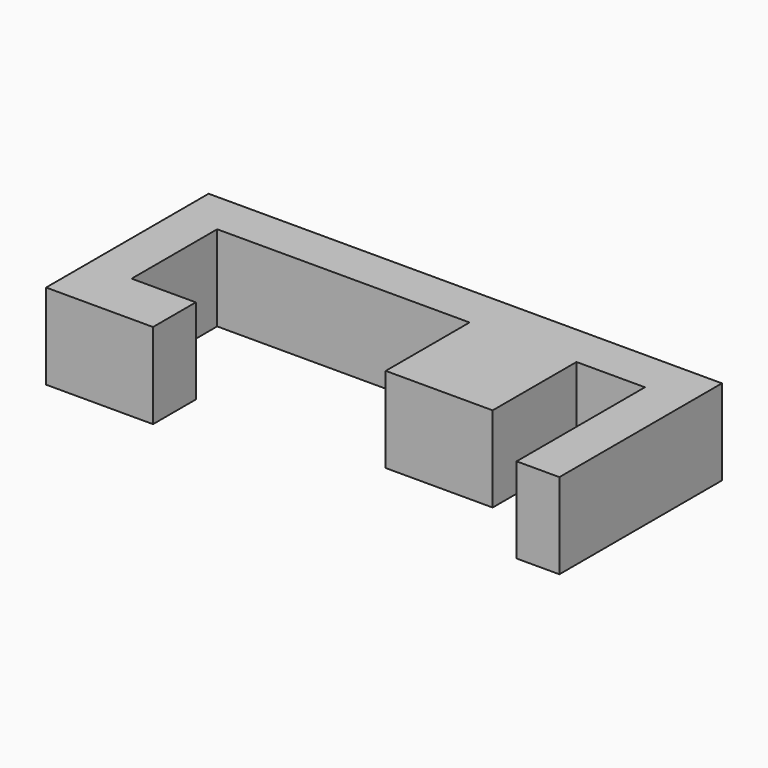
from build123d import *

# Parameters (mm, degrees)
BOX003_W     = 85
BOX003_H     = 13
BOX003_DEPTH = 20
BOX002_W     = 16
BOX002_H     = 25
BOX002_DEPTH = 20
BOX001_W     = 59
BOX001_H     = 25
BOX001_DEPTH = 20
BOX_W        = 120
BOX_H        = 47.5
BOX_DEPTH    = 20


with BuildPart() as cube003:
    # Box003 → Box003 (new body)
    with BuildSketch(Plane(origin=(25, 0, 0), x_dir=(1, 0, 0), z_dir=(0, 0, 1))):
        with Locations((42.5, 6.5)):
            Rectangle(BOX003_W, BOX003_H)
    extrude(amount=BOX003_DEPTH)


with BuildPart() as cube002:
    # Box002 → Box002 (new body)
    with BuildSketch(Plane(origin=(94, 12.5, 0), x_dir=(1, 0, 0), z_dir=(0, 0, 1))):
        with Locations((8, 12.5)):
            Rectangle(BOX002_W, BOX002_H)
    extrude(amount=BOX002_DEPTH)


with BuildPart() as cube001:
    # Box001 → Box001 (new body)
    with BuildSketch(Plane(origin=(10, 12.5, 0), x_dir=(1, 0, 0), z_dir=(0, 0, 1))):
        with Locations((29.5, 12.5)):
            Rectangle(BOX001_W, BOX001_H)
    extrude(amount=BOX001_DEPTH)


with BuildPart() as cut002:
    # Box → Box (new body)
    with BuildSketch(Plane.XY):
        with Locations((60, 23.75)):
            Rectangle(BOX_W, BOX_H)
    extrude(amount=BOX_DEPTH)

    # Cut: cut Cube001
    add(cube001.part, mode=Mode.SUBTRACT)

    # Cut001: cut Cube002
    add(cube002.part, mode=Mode.SUBTRACT)

    # Cut002: cut Cube003
    add(cube003.part, mode=Mode.SUBTRACT)


solid = cut002.part
